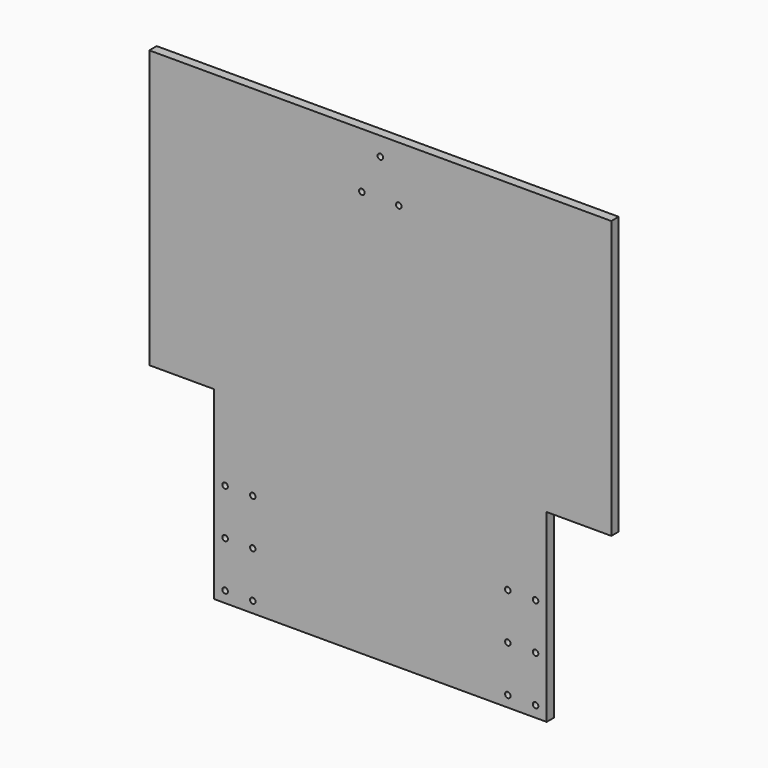
from build123d import *

# Parameters (mm, degrees)
F1_DEPTH = 5
F2_R     = 1.5
F3_DEPTH = 5


with BuildPart() as f1:
    # F0 (on Front) → F1 (new body)
    with BuildSketch(Plane.XZ):
        Polygon((90, -75), (125, -75), (125, 75), (-125, 75), (-125, -75), (-90, -75), (-90, -175), (90, -175), align=None)
    extrude(amount=F1_DEPTH)

    # F2 (on face) → F3 (cut)
    with BuildSketch(Plane.XZ.offset(5)):
        with Locations((0, 65)):
            Circle(F2_R)
        with Locations((-10, 45)):
            Circle(F2_R)
        with Locations((10, 45)):
            Circle(F2_R)
        with Locations((-84, -169)):
            Circle(F2_R)
        with Locations((-84, -144)):
            Circle(F2_R)
        with Locations((-84, -119)):
            Circle(F2_R)
        with Locations((-69, -169)):
            Circle(F2_R)
        with Locations((-69, -144)):
            Circle(F2_R)
        with Locations((-69, -119)):
            Circle(F2_R)
        with Locations((84, -169)):
            Circle(F2_R)
        with Locations((84, -144)):
            Circle(F2_R)
        with Locations((69, -169)):
            Circle(F2_R)
        with Locations((69, -119)):
            Circle(F2_R)
        with Locations((69, -144)):
            Circle(F2_R)
        with Locations((84, -119)):
            Circle(F2_R)
    extrude(amount=-F3_DEPTH, mode=Mode.SUBTRACT)


solid = f1.part
